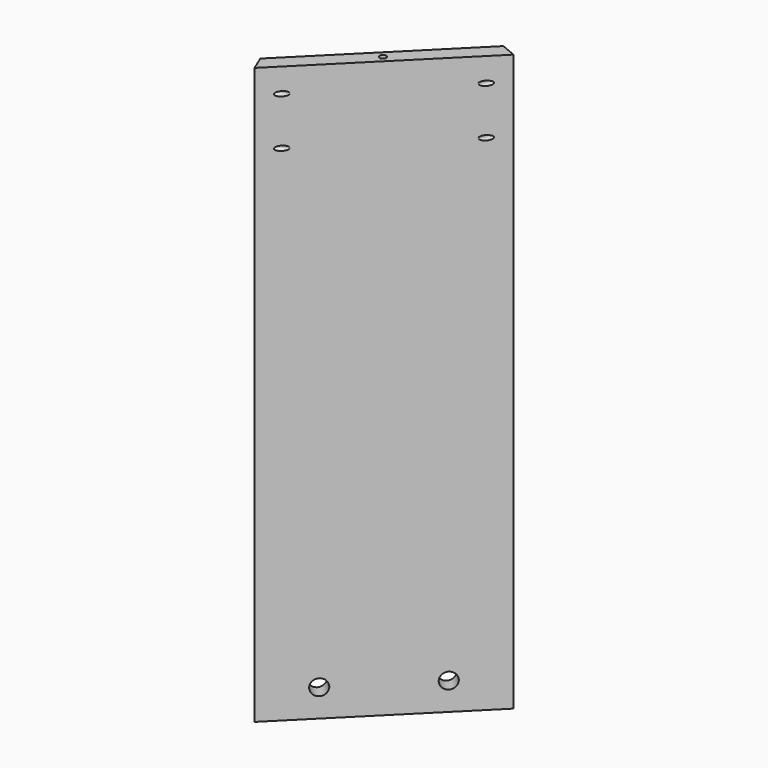
from build123d import *

# Parameters (mm, degrees)
F1_DEPTH       = 240
F2_DEPTH       = 240
F3_DEPTH       = 240
F4_DEPTH       = 240
F9_D           = 6.6
F9_DEPTH       = 12
F9_TIP         = 1.9828400428
F9_ON_F5_D     = 6.6
F9_ON_F5_DEPTH = 12
F9_ON_F5_TIP   = 1.9828400428
F9_ON_F6_D     = 6.6
F9_ON_F6_DEPTH = 12
F9_ON_F6_TIP   = 1.9828400428
F9_ON_F7_D     = 6.6
F9_ON_F7_DEPTH = 12
F9_ON_F7_TIP   = 1.9828400428
F13_D          = 2.7051
F13_ON_F10_D   = 2.7051
F13_ON_F12_D   = 2.7051
F17_D          = 1.9939
F17_ON_F14_D   = 1.9939


with BuildPart() as f1:
    # F0 (on Top) → F1 (new body)
    with BuildSketch(Plane.XY):
        Polygon((-180, 60), (-120, 0), (-117.3697438789, 6.35), (-173.65, 62.6302561211), align=None)
    extrude(amount=F1_DEPTH)

    # F9 on F5
    with Locations(Plane(origin=(-60, -60, 0), x_dir=(0.7071067812, -0.7071067812, 0), z_dir=(-0.7071067812, -0.7071067812, 0))):
        with Locations((-106.066017178, 11.51), (-148.4924240492, 11.51)):
            Hole(F9_ON_F5_D / 2, depth=F9_ON_F5_DEPTH)
            with Locations((0, 0, -(F9_ON_F5_DEPTH + F9_ON_F5_TIP / 2))):  # 118° drill point
                Cone(0, F9_ON_F5_D / 2, F9_ON_F5_TIP, mode=Mode.SUBTRACT)

    # F13 on F10 (through all)
    with Locations(Plane(origin=(0, 0, 0), x_dir=(1, 0, 0), z_dir=(0, 0, -1))):
        with Locations((-147.7549359697, -32.2450640303)):
            Hole(F13_ON_F10_D / 2)


with BuildPart() as f2:
    # F0 (on Top) → F2 (new body)
    with BuildSketch(Plane.XY):
        Polygon((-120, 280), (-180, 220), (-173.65, 217.3697438789), (-117.3697438789, 273.65), align=None)
    extrude(amount=F2_DEPTH)

    # F9
    with Locations(Plane(origin=(-200, 200, 0), x_dir=(-0.7071067812, -0.7071067812, 0), z_dir=(-0.7071067812, 0.7071067812, 0))):
        with Locations((-91.9238815543, 11.51), (-49.4974746831, 11.51)):
            Hole(F9_D / 2, depth=F9_DEPTH)
            with Locations((0, 0, -(F9_DEPTH + F9_TIP / 2))):  # 118° drill point
                Cone(0, F9_D / 2, F9_TIP, mode=Mode.SUBTRACT)

    # F13 on F12 (through all)
    with Locations(Plane(origin=(0, 0, 0), x_dir=(1, 0, 0), z_dir=(0, 0, -1))):
        with Locations((-147.7549359697, -247.7549359697)):
            Hole(F13_ON_F12_D / 2)


with BuildPart() as f3:
    # F0 (on Top) → F3 (new body)
    with BuildSketch(Plane.XY):
        Polygon((173.65, 217.3697438789), (180, 220), (120, 280), (117.3697438789, 273.65), align=None)
    extrude(amount=F3_DEPTH)

    # F9 on F7
    with Locations(Plane(origin=(200, 200, 0), x_dir=(-0.7071067812, 0.7071067812, 0), z_dir=(0.7071067812, 0.7071067812, 0))):
        with Locations((49.4974746831, 11.51), (91.9238815543, 11.51)):
            Hole(F9_ON_F7_D / 2, depth=F9_ON_F7_DEPTH)
            with Locations((0, 0, -(F9_ON_F7_DEPTH + F9_ON_F7_TIP / 2))):  # 118° drill point
                Cone(0, F9_ON_F7_D / 2, F9_ON_F7_TIP, mode=Mode.SUBTRACT)


with BuildPart() as f4:
    # F0 (on Top) → F4 (new body)
    with BuildSketch(Plane.XY):
        Polygon((117.3697438789, 6.35), (120, 0), (180, 60), (173.65, 62.6302561211), align=None)
    extrude(amount=F4_DEPTH)

    # F9 on F6
    with Locations(Plane(origin=(60, -60, 0), x_dir=(0.7071067812, 0.7071067812, 0), z_dir=(0.7071067812, -0.7071067812, 0))):
        with Locations((148.4924240492, 11.51), (106.066017178, 11.51)):
            Hole(F9_ON_F6_D / 2, depth=F9_ON_F6_DEPTH)
            with Locations((0, 0, -(F9_ON_F6_DEPTH + F9_ON_F6_TIP / 2))):  # 118° drill point
                Cone(0, F9_ON_F6_D / 2, F9_ON_F6_TIP, mode=Mode.SUBTRACT)

    # F13 (through all)
    with Locations(Plane(origin=(0, 0, 0), x_dir=(1, 0, 0), z_dir=(0, 0, -1))):
        with Locations((147.7549359697, -32.2450640303)):
            Hole(F13_D / 2)

    # F17 (through all)
    with Locations(Plane(origin=(47.5735931288, 114.8528137424, 0), x_dir=(-0.9238795325, 0.3826834324, 0), z_dir=(0.3826834324, 0.9238795325, 0))):
        with Locations((-139.9007146742, 230), (-139.9007146742, 210)):
            Hole(F17_D / 2)

    # F17 on F14 (through all)
    with Locations(Plane(origin=(102.4264068712, 42.4264068712, 0), x_dir=(0.3826834324, -0.9238795325, 0), z_dir=(-0.9238795325, -0.3826834324, 0))):
        with Locations((42.4854166479, 230), (42.4854166479, 210)):
            Hole(F17_ON_F14_D / 2)


solid = f4.part
